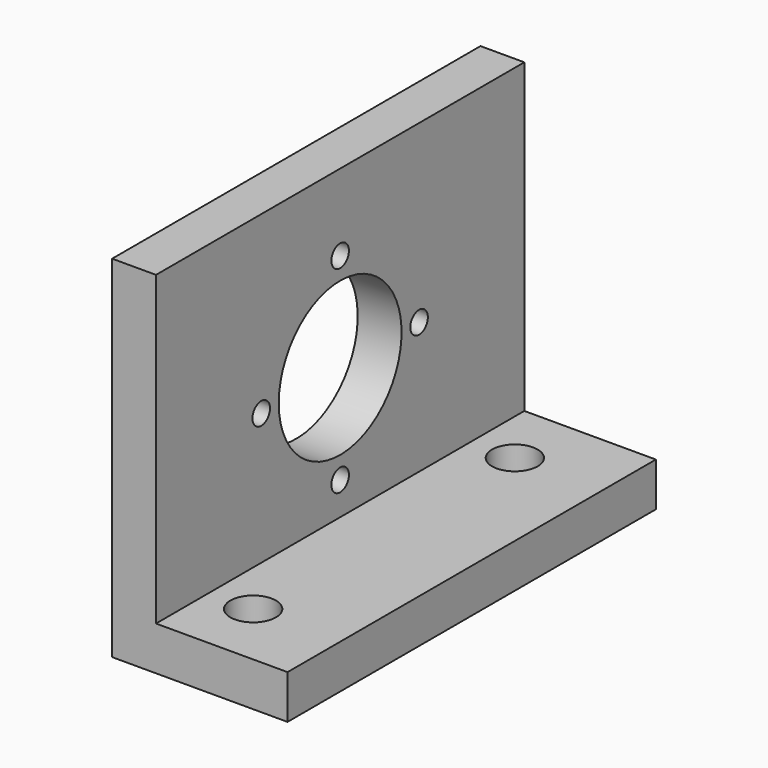
from build123d import *

# Parameters (mm, degrees)
F1_DEPTH = 66.675
F2_R     = 1.5875
F2_R_2   = 11.1125
F3_DEPTH = 25.401
F4_R     = 2.8575
F5_DEPTH = 3.556
F6_R     = 3.302
F7_DEPTH = 50.801


with BuildPart() as f1:
    # F0 (on Front) → F1 (new body)
    with BuildSketch(Plane.XZ):
        Polygon((0, 50.8), (0, 0), (25.4, 0), (25.4, 6.35), (6.35, 6.35), (6.35, 50.8), align=None)
    extrude(amount=F1_DEPTH)

    # F2 (on face) → F3 (cut, through all)
    with BuildSketch(Plane(origin=(0, 0, 0), x_dir=(0, -1, 0), z_dir=(-1, 0, 0))):
        with Locations((19.05, 25.4)):
            Circle(F2_R)
        with Locations((33.3375, 39.6875)):
            Circle(F2_R)
        with Locations((33.3375, 25.4)):
            Circle(F2_R_2)
        with Locations((47.625, 25.4)):
            Circle(F2_R)
        with Locations((33.3375, 11.1125)):
            Circle(F2_R)
    extrude(amount=-F3_DEPTH, mode=Mode.SUBTRACT)

    # F4 (on face) → F5 (cut)
    with BuildSketch(Plane(origin=(0, 0, 0), x_dir=(0, -1, 0), z_dir=(-1, 0, 0))):
        with Locations((33.3375, 39.6875)):
            Circle(F4_R)
        with Locations((47.625, 25.4)):
            Circle(F4_R)
        with Locations((33.3375, 11.1125)):
            Circle(F4_R)
        with Locations((19.05, 25.4)):
            Circle(F4_R)
    extrude(amount=-F5_DEPTH, mode=Mode.SUBTRACT)

    # F6 (on face) → F7 (cut, through all)
    with BuildSketch(Plane(origin=(0, 0, 0), x_dir=(1, 0, 0), z_dir=(0, 0, -1))):
        with Locations((12.7, 9.652)):
            Circle(F6_R)
        with Locations((12.7, 57.023)):
            Circle(F6_R)
    extrude(amount=-F7_DEPTH, mode=Mode.SUBTRACT)


solid = f1.part
